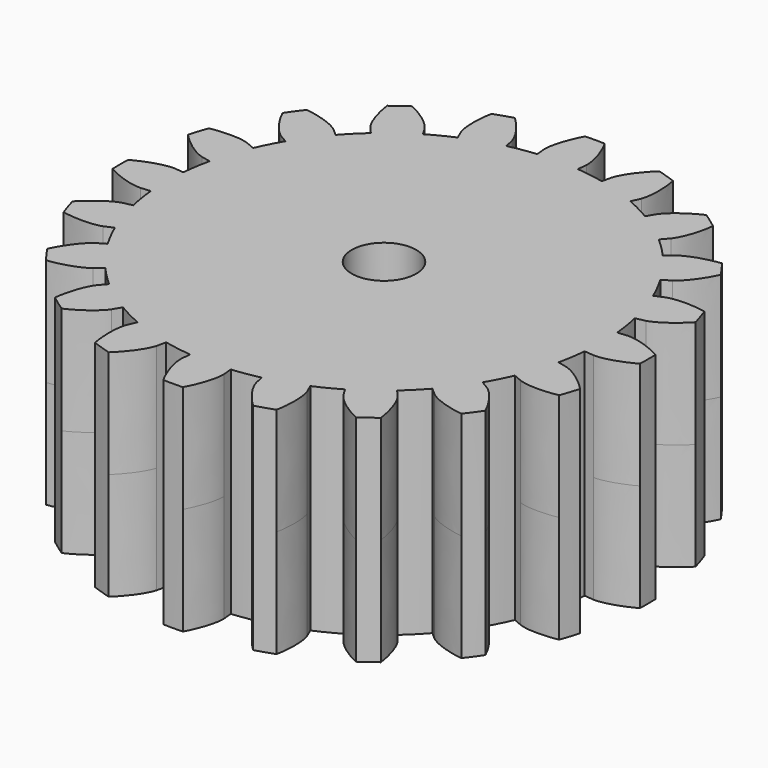
from build123d import *

# Parameters (mm, degrees)
F1_DEPTH = 5
F4_COUNT = 20
F3_R     = 1.5
F5_DEPTH = 10
F6_ANGLE = -5.353958292


with BuildPart() as f1:
    # F0 (on Top) → F1 (new body, symmetric)
    with BuildSketch(Plane.XY):
        with BuildLine():
            ThreePointArc((9.9486945108, 1.8812490735), (-10.0808271059, -0.9447462126), (10.12499978, 0))
            ThreePointArc((10.12499978, 0), (10.0808271059, 0.9447462126), (9.9486945108, 1.8812490735))
        make_face()
        with BuildLine():
            ThreePointArc((9.9486945108, 1.8812490735), (10.0808271059, 0.9447462126), (10.12499978, 0))
            Line((10.12499978, 0), (10.571541755, 0))
            add(Edge.make_bspline(
                [(10.571541755, 0), (10.5772924331, 0.000149121), (10.5930033484, 0.000556521), (10.6548769585, 0.0061237014), (10.7507573168, 0.0210369189), (10.8862090874, 0.0503676392), (11.0569473986, 0.0985570031), (11.2619183296, 0.1701433963), (11.4984631611, 0.2692541182), (11.7639653182, 0.4005476204), (12.0156006771, 0.5430913372), (12.178546643, 0.6495902661), (12.2429300644, 0.6925050106)],
                knots=[0, 0, 0, 0, 0.0334556725, 0.0914012621, 0.1662085588, 0.254721701, 0.3550861494, 0.4660432103, 0.5866662452, 0.7162361645, 0.8541738734, 0.9439228493, 0.9439228493, 0.9439228493, 0.9439228493], degree=3))
            ThreePointArc((12.2429300644, 0.6925050106), (12.2090017186, 1.1441926354), (12.1584146382, 1.5943190512))
            add(Edge.make_bspline(
                [(10.38746091, 1.964217636), (10.3931391593, 1.9651396014), (10.4086521984, 1.9676584208), (10.470482807, 1.973684445), (10.5674645248, 1.9768457084), (10.7060074094, 1.9731929816), (10.8827263759, 1.9575663175), (11.0974290977, 1.9253105358), (11.3482700138, 1.8718762087), (11.6335436627, 1.7921998358), (11.9072822908, 1.6988926628), (12.087178655, 1.624523934), (12.1584146382, 1.5943190512)],
                knots=[0, 0, 0, 0, 0.0334556725, 0.0914012621, 0.1662085588, 0.254721701, 0.3550861494, 0.4660432103, 0.5866662452, 0.7162361645, 0.8541738734, 0.9439228493, 0.9439228493, 0.9439228493, 0.9439228493], degree=3))
            Line((10.38746091, 1.964217636), (9.9486945108, 1.8812490735))
        make_face()
    extrude(amount=F1_DEPTH, both=True)

    # F4: F1 ×20 about axis
    f4_axis = Axis((0, 0, 12.6733649522), (0, 0, 1))


with BuildPart() as f1_1:
    add(f1.part)
    for i in range(1, F4_COUNT):
        add(f1.part.rotate(f4_axis, i * 360 / F4_COUNT))

    # F3 (on face) → F5 (cut, through all)
    with BuildSketch(Plane.XY.offset(5)):
        Circle(F3_R)
    extrude(amount=-F5_DEPTH, mode=Mode.SUBTRACT)


with BuildPart() as f1_2:
    # F6: moved
    add(f1_1.part.rotate(Axis((0, 0, 12.6733649522), (0, 0, 1)), F6_ANGLE))


solid = f1_2.part
